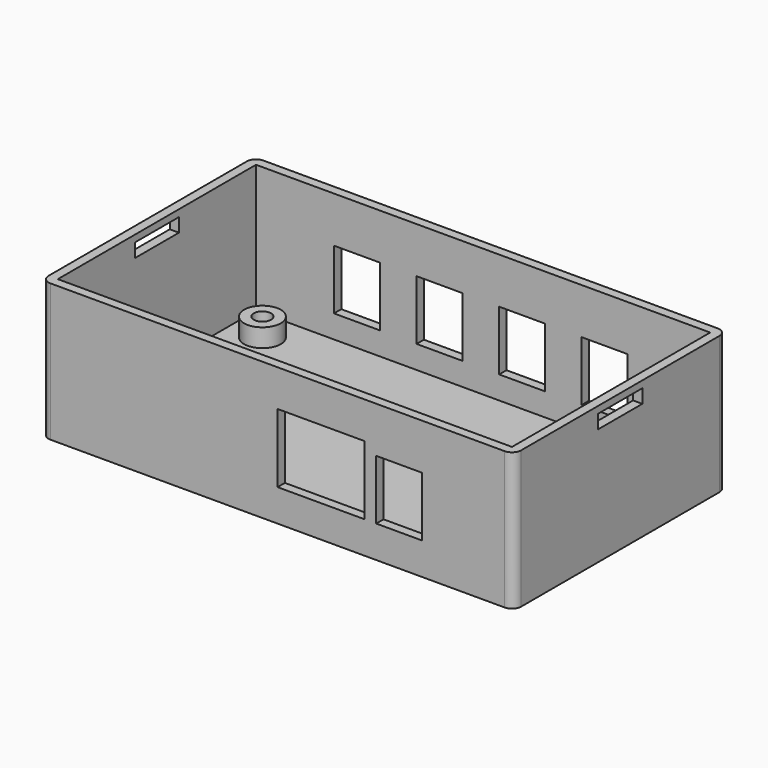
from build123d import *

# Parameters (mm, degrees)
BOX002_W      = 10
BOX002_H      = 4
BOX002_DEPTH  = 13
BOX003_W      = 10
BOX003_H      = 4
BOX003_DEPTH  = 13
BOX004_W      = 10
BOX004_H      = 4
BOX004_DEPTH  = 13
BOX005_W      = 10
BOX005_H      = 4
BOX005_DEPTH  = 13
BOX006_W      = 19
BOX006_H      = 4
BOX006_DEPTH  = 15
BOX007_W      = 4
BOX007_H      = 12
BOX007_DEPTH  = 3
BOX008_W      = 4
BOX008_H      = 12
BOX008_DEPTH  = 3
BOX001_W      = 10
BOX001_H      = 4
BOX001_DEPTH  = 13
BOX_W         = 100
BOX_H         = 55
BOX_DEPTH     = 2
TUBE_R        = 4
TUBE_R_2      = 1.9
TUBE_DEPTH    = 6
TUBE001_R     = 4
TUBE001_R_2   = 1.9
TUBE001_DEPTH = 6
TUBE002_R     = 4
TUBE002_R_2   = 1.9
TUBE002_DEPTH = 6
TUBE003_R     = 4
TUBE003_R_2   = 1.9
TUBE003_DEPTH = 6
SKETCH_W      = 99
SKETCH_H      = 54
PAD_DEPTH     = 30


with BuildPart() as barrelcutout001:
    # Box002 → Box002 (new body)
    with BuildSketch(Plane(origin=(53, 52, 7), x_dir=(1, 0, 0), z_dir=(0, 0, 1))):
        with Locations((5, 2)):
            Rectangle(BOX002_W, BOX002_H)
    extrude(amount=BOX002_DEPTH)


with BuildPart() as barrelcutout002:
    # Box003 → Box003 (new body)
    with BuildSketch(Plane(origin=(35, 52, 7), x_dir=(1, 0, 0), z_dir=(0, 0, 1))):
        with Locations((5, 2)):
            Rectangle(BOX003_W, BOX003_H)
    extrude(amount=BOX003_DEPTH)


with BuildPart() as barrelcutout003:
    # Box004 → Box004 (new body)
    with BuildSketch(Plane(origin=(17, 52, 7), x_dir=(1, 0, 0), z_dir=(0, 0, 1))):
        with Locations((5, 2)):
            Rectangle(BOX004_W, BOX004_H)
    extrude(amount=BOX004_DEPTH)


with BuildPart() as barrelcutout004:
    # Box005 → Box005 (new body)
    with BuildSketch(Plane(origin=(71, -3, 7), x_dir=(1, 0, 0), z_dir=(0, 0, 1))):
        with Locations((5, 2)):
            Rectangle(BOX005_W, BOX005_H)
    extrude(amount=BOX005_DEPTH)


with BuildPart() as obj1:
    # Box006 → Box006 (new body)
    with BuildSketch(Plane(origin=(49.5, -3, 7), x_dir=(1, 0, 0), z_dir=(0, 0, 1))):
        with Locations((9.5, 2)):
            Rectangle(BOX006_W, BOX006_H)
    extrude(amount=BOX006_DEPTH)


with BuildPart() as latchcut:
    # Box007 → Box007 (new body)
    with BuildSketch(Plane(origin=(-2.5, 21, 25.5), x_dir=(1, 0, 0), z_dir=(0, 0, 1))):
        with Locations((2, 6)):
            Rectangle(BOX007_W, BOX007_H)
    extrude(amount=BOX007_DEPTH)


with BuildPart() as latchcut001:
    # Box008 → Box008 (new body)
    with BuildSketch(Plane(origin=(97.5, 21, 25.5), x_dir=(1, 0, 0), z_dir=(0, 0, 1))):
        with Locations((2, 6)):
            Rectangle(BOX008_W, BOX008_H)
    extrude(amount=BOX008_DEPTH)


with BuildPart() as cuts:
    # Box001 → Box001 (new body)
    with BuildSketch(Plane(origin=(71, 52, 7), x_dir=(1, 0, 0), z_dir=(0, 0, 1))):
        with Locations((5, 2)):
            Rectangle(BOX001_W, BOX001_H)
    extrude(amount=BOX001_DEPTH)

    # Fusion001: union BarrelCutout001, BarrelCutout002, BarrelCutout003, BarrelCutout004, obj1, LatchCut, LatchCut001
    add(barrelcutout001.part)
    add(barrelcutout002.part)
    add(barrelcutout003.part)
    add(barrelcutout004.part)
    add(obj1.part)
    add(latchcut.part)
    add(latchcut001.part)


with BuildPart() as base:
    # Box → Box (new body)
    with BuildSketch(Plane(origin=(-0.5, -0.5, 0), x_dir=(1, 0, 0), z_dir=(0, 0, 1))):
        with Locations((50, 27.5)):
            Rectangle(BOX_W, BOX_H)
    extrude(amount=BOX_DEPTH)


with BuildPart() as standoff:
    # Tube → Tube (new body)
    with BuildSketch(Plane(origin=(7, 7, 0), x_dir=(1, 0, 0), z_dir=(0, 0, 1))):
        Circle(TUBE_R)
        Circle(TUBE_R_2, mode=Mode.SUBTRACT)
    extrude(amount=TUBE_DEPTH)


with BuildPart() as standoff001:
    # Tube001 → Tube001 (new body)
    with BuildSketch(Plane(origin=(92, 7, 0), x_dir=(1, 0, 0), z_dir=(0, 0, 1))):
        Circle(TUBE001_R)
        Circle(TUBE001_R_2, mode=Mode.SUBTRACT)
    extrude(amount=TUBE001_DEPTH)


with BuildPart() as standoff002:
    # Tube002 → Tube002 (new body)
    with BuildSketch(Plane(origin=(7, 47, 0), x_dir=(1, 0, 0), z_dir=(0, 0, 1))):
        Circle(TUBE002_R)
        Circle(TUBE002_R_2, mode=Mode.SUBTRACT)
    extrude(amount=TUBE002_DEPTH)


with BuildPart() as standoff003:
    # Tube003 → Tube003 (new body)
    with BuildSketch(Plane(origin=(92, 47, 0), x_dir=(1, 0, 0), z_dir=(0, 0, 1))):
        Circle(TUBE003_R)
        Circle(TUBE003_R_2, mode=Mode.SUBTRACT)
    extrude(amount=TUBE003_DEPTH)


with BuildPart() as obj2:
    # Sketch → Pad (new body)
    with BuildSketch(Plane.XY):
        with BuildLine():
            ThreePointArc((0, 56), (-1.414214, 55.414214), (-2, 54))
            Line((-2, 0), (-2, 54))
            ThreePointArc((-2, 0), (-1.414214, -1.414214), (0, -2))
            Line((99, -2), (0, -2))
            ThreePointArc((99, -2), (100.414214, -1.414214), (101, 0))
            Line((101, 54), (101, 0))
            ThreePointArc((101, 54), (100.414207, 55.41422), (98.999983, 56))
            Line((0, 56), (98.999983, 56))
        make_face()
        with Locations((49.5, 27)):
            Rectangle(SKETCH_W, SKETCH_H, mode=Mode.SUBTRACT)
    extrude(amount=PAD_DEPTH)

    # Fusion: union Base, Standoff, Standoff001, Standoff002, Standoff003
    add(base.part)
    add(standoff.part)
    add(standoff001.part)
    add(standoff002.part)
    add(standoff003.part)

    # Cut: cut Cuts
    add(cuts.part, mode=Mode.SUBTRACT)


solid = obj2.part
